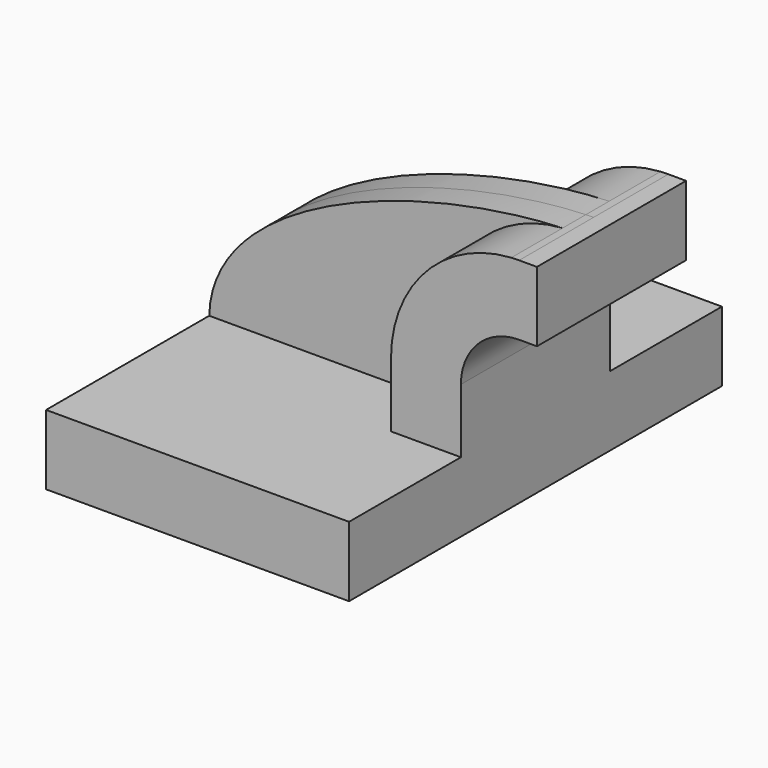
from build123d import *

# Parameters (mm, degrees)
F1_DEPTH = 63.5
F2_DEPTH = 25.4
F3_DEPTH = 7.9375


with BuildPart() as f1:
    # F0 (on Front) → F1 (new body, symmetric)
    with BuildSketch(Plane.XZ):
        Polygon((-41.275, 9.525), (-41.275, -9.525), (41.275, -9.525), (41.275, 9.525), (22.225, 9.525), align=None)
    extrude(amount=F1_DEPTH, both=True)

    # F0 (on Front) → F2 (join, symmetric)
    with BuildSketch(Plane.XZ):
        with BuildLine():
            Line((22.225, 9.525), (41.275, 9.525))
            Line((41.275, 9.525), (41.275, 27.0002))
            ThreePointArc((41.275, 27.0002), (45.92468, 38.22552), (57.15, 42.8752))
            Line((57.15, 42.8752), (61.991871, 42.8752))
            Line((61.991871, 42.8752), (61.991871, 61.9252))
            Line((61.991871, 61.9252), (57.15, 61.9252))
            add(Edge.make_bspline(
                [(55.007715, 61.859435), (55.727449, 61.887292), (56.441689, 61.909225), (57.15, 61.9252)],
                knots=[109.507647, 109.507647, 109.507647, 109.507647, 111.504536, 111.504536, 111.504536, 111.504536], degree=3))
            ThreePointArc((55.007715, 61.859435), (31.708155, 50.926507), (22.225, 27.0002))
            Line((22.225, 27.0002), (22.225, 9.525))
        make_face()
    extrude(amount=F2_DEPTH, both=True)

    # F0 (on Front) → F3 (join, symmetric)
    with BuildSketch(Plane.XZ):
        with BuildLine():
            add(Edge.make_bspline(
                [(-41.275, 9.525), (-40.454127, 40.988729), (15.538124, 60.331766), (55.007715, 61.859435)],
                knots=[0, 0, 0, 0, 109.507647, 109.507647, 109.507647, 109.507647], degree=3))
            Line((-41.275, 9.525), (22.225, 9.525))
            Line((22.225, 9.525), (22.225, 27.0002))
            ThreePointArc((22.225, 27.0002), (31.708155, 50.926507), (55.007715, 61.859435))
        make_face()
    extrude(amount=F3_DEPTH, both=True)


solid = f1.part
